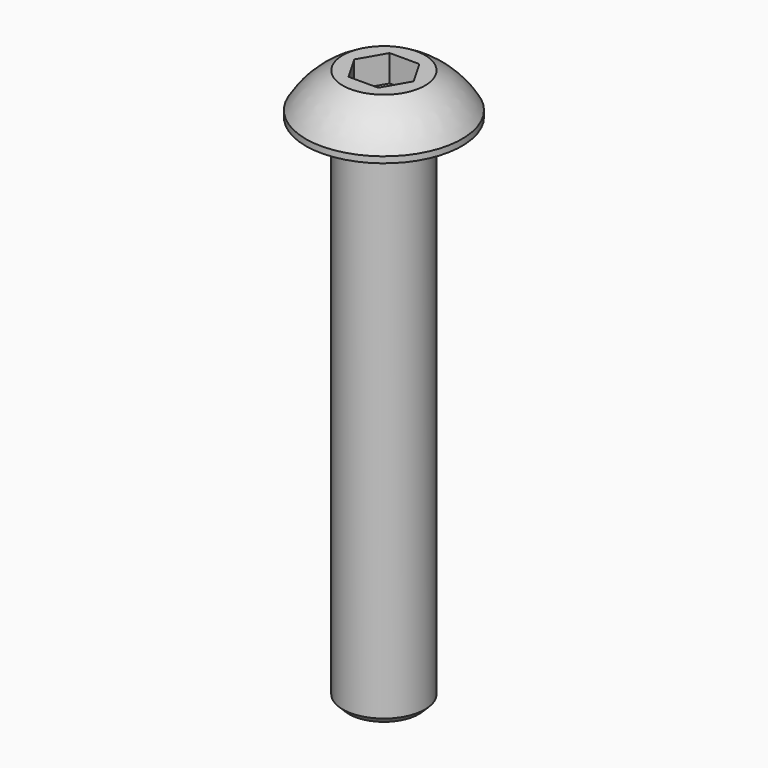
from build123d import *

# Parameters (mm, degrees)
F3_DEPTH = 1.3
F4_R     = 2
F5_DEPTH = 25
F6_SIZE  = 0.3


with BuildPart() as f1:
    # F0 (on Front) → F1 (revolve)
    with BuildSketch(Plane.XZ):
        with BuildLine():
            Line((-3.8, 0), (-3.8, -0.3))
            Line((-3.8, -0.3), (0, -0.3))
            Line((0, -0.3), (0, 1.7))
            Line((0, 1.7), (-2, 1.7))
            ThreePointArc((-2, 1.7), (-3.022003, 0.979179), (-3.8, 0))
        make_face()
    revolve(axis=Axis((0, 0, 0.7), (0, 0, -1)))

    # F2 (on face) → F3 (cut)
    with BuildSketch(Plane.XY.offset(1.7)):
        Polygon((0.721688, 1.25), (-0.721688, 1.25), (-1.443376, 0), (-0.721688, -1.25), (0.721688, -1.25), (1.443376, 0), align=None)
    extrude(amount=-F3_DEPTH, mode=Mode.SUBTRACT)

    # F4 (on face) → F5 (join)
    with BuildSketch(Plane(origin=(0, 0, -0.3), x_dir=(1, 0, 0), z_dir=(0, 0, -1))):
        Circle(F4_R)
    extrude(amount=F5_DEPTH)

    # F6
    f6_edges = [f1.edges().sort_by_distance(p)[0] for p in [
        (-2, 0, -25.3),
    ]]
    chamfer(f6_edges, length=F6_SIZE)


solid = f1.part
